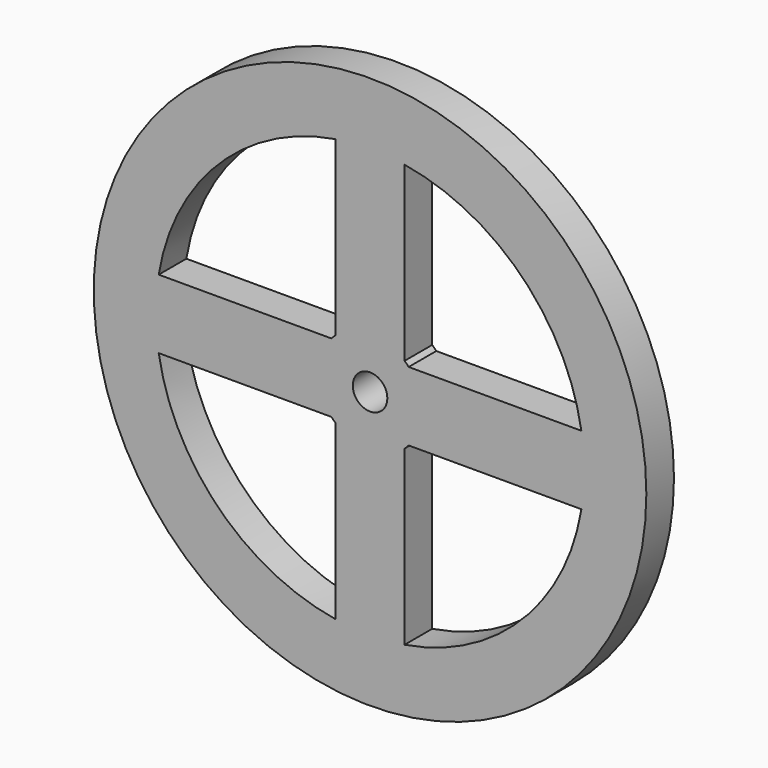
from build123d import *

# Parameters (mm, degrees)
F0_R     = 40
F0_R_2   = 2.5
F1_DEPTH = 2.5


with BuildPart() as f1:
    # F0 (on Front) → F1 (new body, symmetric)
    with BuildSketch(Plane.XZ):
        Circle(F0_R)
        with BuildLine():
            ThreePointArc((-5, -30.594117), (-21.92031, -21.92031), (-30.594117, -5))
            Line((-30.594117, -5), (-5.59017, -5))
            ThreePointArc((-5.59017, -5), (-5.303301, -5.303301), (-5, -5.59017))
            Line((-5, -5.59017), (-5, -30.594117))
        make_face(mode=Mode.SUBTRACT)
        with BuildLine():
            Line((5, -30.594117), (5, -5.59017))
            ThreePointArc((5, -5.59017), (5.303301, -5.303301), (5.59017, -5))
            Line((5.59017, -5), (30.594117, -5))
            ThreePointArc((30.594117, -5), (21.92031, -21.92031), (5, -30.594117))
        make_face(mode=Mode.SUBTRACT)
        with BuildLine():
            Line((-5, 30.594117), (-5, 5.59017))
            ThreePointArc((-5, 5.59017), (-5.303301, 5.303301), (-5.59017, 5))
            Line((-5.59017, 5), (-30.594117, 5))
            ThreePointArc((-30.594117, 5), (-21.92031, 21.92031), (-5, 30.594117))
        make_face(mode=Mode.SUBTRACT)
        Circle(F0_R_2, mode=Mode.SUBTRACT)
        with BuildLine():
            ThreePointArc((5.59017, 5), (5.303301, 5.303301), (5, 5.59017))
            Line((5, 5.59017), (5, 30.594117))
            ThreePointArc((5, 30.594117), (21.92031, 21.92031), (30.594117, 5))
            Line((30.594117, 5), (5.59017, 5))
        make_face(mode=Mode.SUBTRACT)
    extrude(amount=F1_DEPTH, both=True)


solid = f1.part
